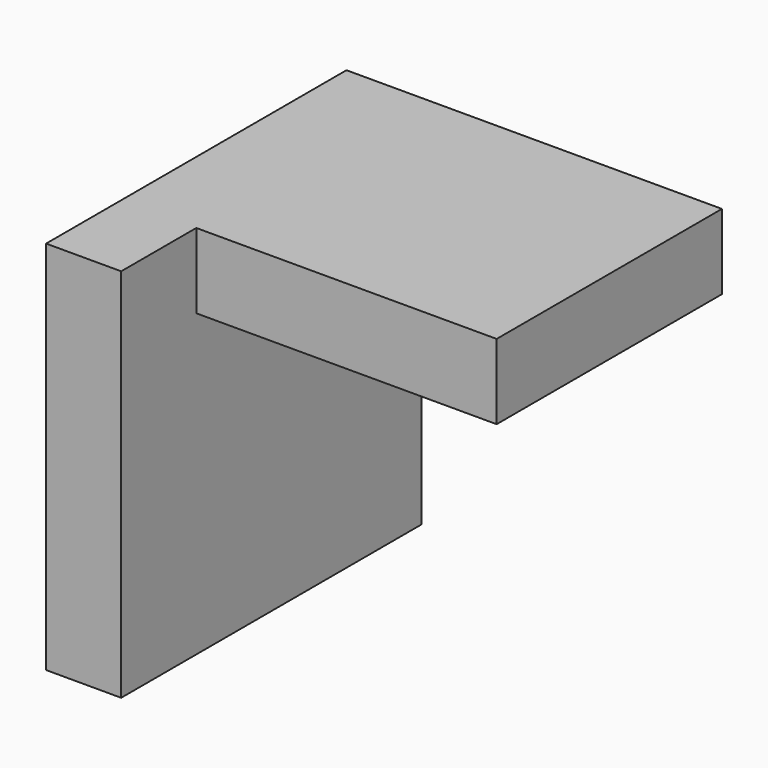
from build123d import *

# Parameters (mm, degrees)
F0_W     = 12.7
F0_H     = 63.5
F1_DEPTH = 63.5
F2_W     = 63.5
F2_H     = 12.7
F3_DEPTH = 47.624812


with BuildPart() as f1:
    # F0 (on Front) → F1 (new body)
    with BuildSketch(Plane.XZ):
        with Locations((6.35, -31.75)):
            Rectangle(F0_W, F0_H)
    extrude(amount=F1_DEPTH)

    # F0 (on Front) + F2 (on Front) → F3 (join)
    with BuildSketch(Plane.XZ):
        with Locations((6.35, -31.75)):
            Rectangle(F0_W, F0_H)
    with BuildSketch(Plane.XZ):
        with Locations((31.75, -6.35)):
            Rectangle(F2_W, F2_H)
    extrude(amount=F3_DEPTH)


solid = f1.part
